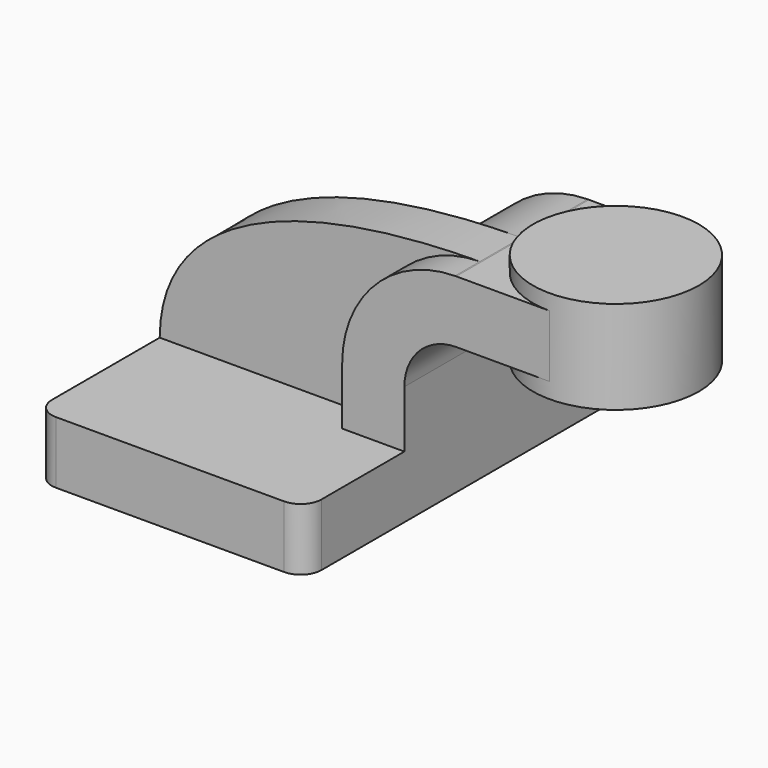
from build123d import *

# Parameters (mm, degrees)
F1_DEPTH = 63.5
F2_DEPTH = 25.4
F3_DEPTH = 15.875
F0_W     = 25.4
F0_H     = 19.05
F4_DEPTH = 25.4
F6_R     = 6.35


with BuildPart() as f1:
    # F0 (on Front) → F1 (new body, symmetric)
    with BuildSketch(Plane.XZ):
        Polygon((22.225, 9.525), (-41.275, 9.525), (-41.275, -9.525), (41.275, -9.525), (41.275, 9.525), align=None)
    extrude(amount=F1_DEPTH, both=True)

    # F0 (on Front) → F2 (join, symmetric)
    with BuildSketch(Plane.XZ):
        with BuildLine():
            Line((22.225, 27.0002), (22.225, 9.525))
            Line((22.225, 9.525), (41.275, 9.525))
            Line((41.275, 9.525), (41.275, 27.0002))
            ThreePointArc((41.275, 27.0002), (45.9246798487, 38.2255201513), (57.15, 42.8752))
            Line((57.15, 42.8752), (60.325, 42.8752))
            Line((60.325, 42.8752), (60.325, 61.9252))
            Line((60.325, 61.9252), (57.15, 61.9252))
            add(Edge.make_bspline(
                [(56.7658276627, 61.9230870029), (56.8938039219, 61.92387202), (57.0218614604, 61.9245763394), (57.15, 61.9252)],
                knots=[111.2545269173, 111.2545269173, 111.2545269173, 111.2545269173, 111.5045361635, 111.5045361635, 111.5045361635, 111.5045361635], degree=3))
            ThreePointArc((56.7658276627, 61.9230870029), (32.3188417117, 51.5597033146), (22.225, 27.0002))
        make_face()
    extrude(amount=F2_DEPTH, both=True)

    # F0 (on Front) → F3 (join)
    with BuildSketch(Plane.XZ):
        with BuildLine():
            add(Edge.make_bspline(
                [(-41.275, 9.525), (-41.0380026786, 45.2441586696), (-0.1838187392, 61.5737531077), (56.7658276627, 61.9230870029)],
                knots=[0, 0, 0, 0, 111.2545269173, 111.2545269173, 111.2545269173, 111.2545269173], degree=3))
            Line((-41.275, 9.525), (22.225, 9.525))
            Line((22.225, 9.525), (22.225, 27.0002))
            ThreePointArc((22.225, 27.0002), (32.3188417117, 51.5597033146), (56.7658276627, 61.9230870029))
        make_face()
    extrude(amount=F3_DEPTH)

    # F0 (on Front) → F4 (join, symmetric)
    with BuildSketch(Plane.XZ):
        with Locations((73.025, 52.4002)):
            Rectangle(F0_W, F0_H)
    extrude(amount=F4_DEPTH, both=True)

    # F0 (on Front) → F5 (revolve)
    with BuildSketch(Plane.XZ):
        Polygon((85.725, 66.675), (85.725, 61.9252), (85.725, 42.8752), (85.725, 38.1), (111.125, 38.1), (111.125, 66.675), align=None)
    revolve(axis=Axis((85.725, 0, 52.3875), (0, 0, 1)))

    # F6
    f6_edges = [f1.edges().sort_by_distance(p)[0] for p in [
        (41.275, -63.5, 0),
        (-41.275, -63.5, 0),
        (41.275, 63.5, 0),
        (-41.275, 63.5, 0),
    ]]
    fillet(f6_edges, radius=F6_R)


solid = f1.part
